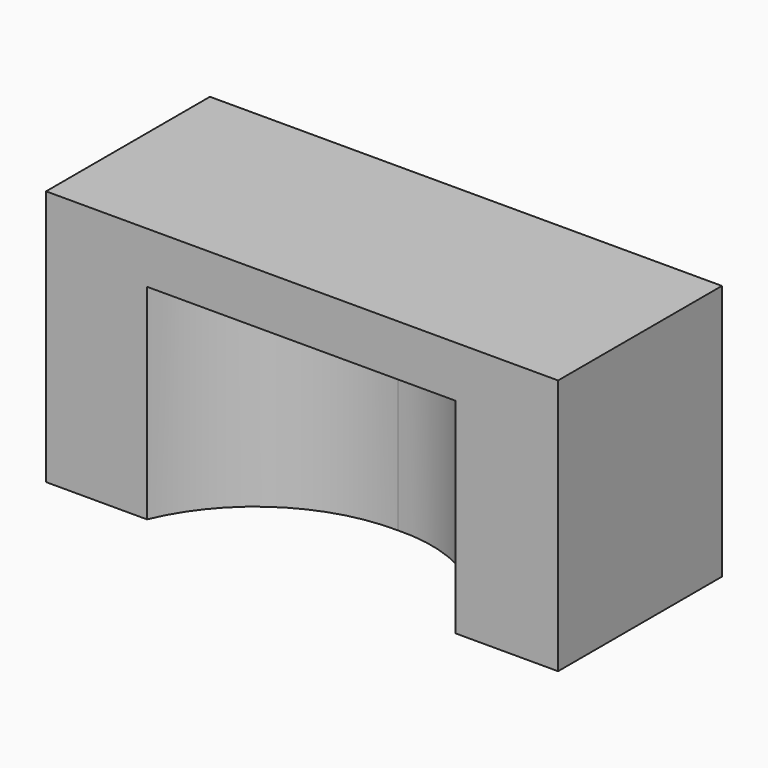
from build123d import *

# Parameters (mm, degrees)
F0_W     = 63.5
F0_H     = 25.4
F1_DEPTH = 31.75
F3_DEPTH = 25.4


with BuildPart() as f1:
    # F0 (on Top) → F1 (new body)
    with BuildSketch(Plane.XY):
        with Locations((-31.75, 12.7)):
            Rectangle(F0_W, F0_H)
    extrude(amount=F1_DEPTH)

    # F2 (on face) → F3 (cut)
    with BuildSketch(Plane(origin=(0, 0, 0), x_dir=(1, 0, 0), z_dir=(0, 0, -1))):
        with BuildLine():
            ThreePointArc((-50.984073, 0), (-42.817071, -9.834289), (-30.535549, -13.380745))
            ThreePointArc((-30.535549, -13.380745), (-19.265496, -9.823114), (-12.694554, 0))
            Line((-12.694554, 0), (-50.984073, 0))
        make_face()
    extrude(amount=-F3_DEPTH, mode=Mode.SUBTRACT)


solid = f1.part
